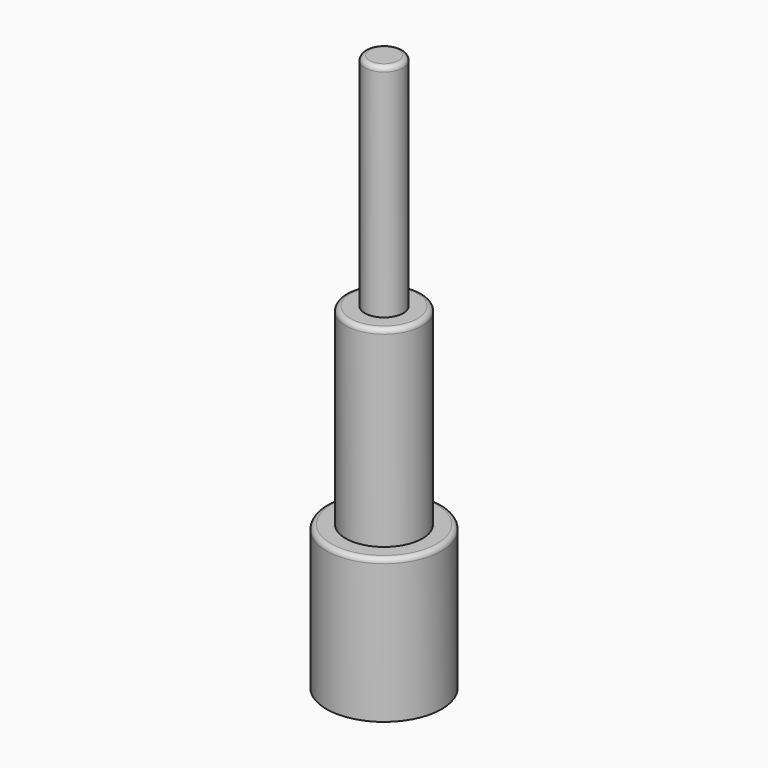
from build123d import *

# Parameters (mm, degrees)
F0_R     = 6
F1_DEPTH = 15
F2_R     = 4
F3_DEPTH = 20
F4_R     = 2
F5_DEPTH = 23
F6_R     = 0.5
F8_DEPTH = 10


with BuildPart() as f1:
    # F0 (on Top) → F1 (new body)
    with BuildSketch(Plane.XY):
        Circle(F0_R)
    extrude(amount=F1_DEPTH)

    # F2 (on face) → F3 (join)
    with BuildSketch(Plane.XY.offset(15)):
        Circle(F2_R)
    extrude(amount=F3_DEPTH)

    # F4 (on face) → F5 (join)
    with BuildSketch(Plane.XY.offset(35)):
        Circle(F4_R)
    extrude(amount=F5_DEPTH)

    # F6
    f6_edges = [f1.edges().sort_by_distance(p)[0] for p in [
        (-4, 0, 35),
        (-6, 0, 15),
        (-2, 0, 58),
    ]]
    fillet(f6_edges, radius=F6_R)

    # F7 (on face) → F8 (cut)
    with BuildSketch(Plane(origin=(0, 0, 0), x_dir=(1, 0, 0), z_dir=(0, 0, -1))):
        with BuildLine():
            ThreePointArc((-1.658312, 2.5), (-3, 0), (-1.658312, -2.5))
            Line((-1.658312, -2.5), (1.658312, -2.5))
            ThreePointArc((1.658312, -2.5), (3, 0), (1.658312, 2.5))
            Line((1.658312, 2.5), (-1.658312, 2.5))
        make_face()
    extrude(amount=-F8_DEPTH, mode=Mode.SUBTRACT)


solid = f1.part
